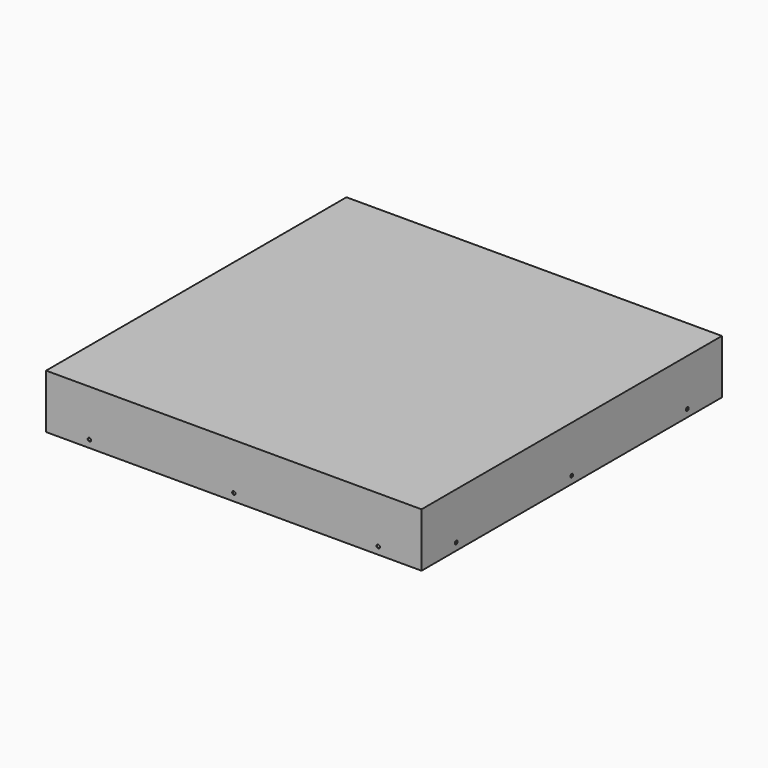
from build123d import *

# Parameters (mm, degrees)
F1_DEPTH = 52.324
F2_T     = -0.762
F4_D     = 3.2639
F4_DEPTH = 0.762
F4_TIP   = 0.9805744872
F6_D     = 3.2639
F8_D     = 3.2639
F8_DEPTH = 0.762
F8_TIP   = 0.9805744872


with BuildPart() as f1:
    # F0 (on Top) → F1 (new body)
    with BuildSketch(Plane.XY):
        Polygon((0, 181.61), (-181.61, 181.61), (-181.61, -181.61), (0, -181.61), (0, 0), align=None)
        Polygon((181.61, 181.61), (0, 181.61), (0, 0), (0, -181.61), (181.61, -181.61), align=None)
    extrude(amount=F1_DEPTH)

    # F2
    f2_openings = [f1.faces().sort_by_distance(p)[0] for p in [
        (0, 0, 0),
    ]]
    offset(amount=F2_T, openings=f2_openings)

    # F4
    with Locations(Plane.XZ.offset(181.61)):
        with Locations((-139.7, 7.112), (0, 7.112), (139.7, 7.112)):
            Hole(F4_D / 2, depth=F4_DEPTH)
            with Locations((0, 0, -(F4_DEPTH + F4_TIP / 2))):  # 118° drill point
                Cone(0, F4_D / 2, F4_TIP, mode=Mode.SUBTRACT)

    # F6 (through all)
    with Locations(Plane(origin=(-181.61, 0, 0), x_dir=(0, -1, 0), z_dir=(-1, 0, 0))):
        with Locations((-139.7, 7.112), (0, 7.112), (139.7, 7.112)):
            Hole(F6_D / 2)

    # F8
    with Locations(Plane(origin=(0, 181.61, 0), x_dir=(-1, 0, 0), z_dir=(0, 1, 0))):
        with Locations((-127, 19.05), (-63.5, 19.05), (0, 19.05), (63.5, 19.05), (127, 19.05)):
            Hole(F8_D / 2, depth=F8_DEPTH)
            with Locations((0, 0, -(F8_DEPTH + F8_TIP / 2))):  # 118° drill point
                Cone(0, F8_D / 2, F8_TIP, mode=Mode.SUBTRACT)


solid = f1.part
